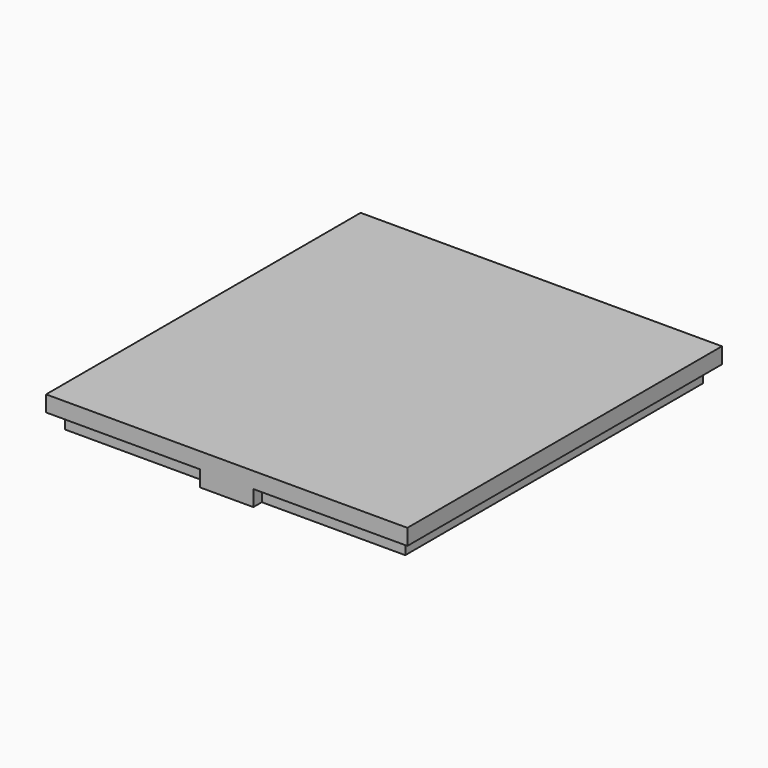
from build123d import *

# Parameters (mm, degrees)
SKETCH_W        = 34
SKETCH_H        = 37
PAD_DEPTH       = 15
SKETCH001_W     = 32
SKETCH001_H     = 35
POCKET_DEPTH    = 1.5
SKETCH002_W     = 30
SKETCH002_H     = 33
POCKET001_DEPTH = 10
SKETCH003_W     = 5
SKETCH003_H     = 5
POCKET002_DEPTH = 300
SKETCH004_W     = 34
SKETCH004_H     = 37
PAD001_DEPTH    = 1.5


with BuildPart() as pocket002:
    # Sketch → Pad (new body)
    with BuildSketch(Plane.XY):
        Rectangle(SKETCH_W, SKETCH_H)
    extrude(amount=PAD_DEPTH)

    # Sketch001 → Pocket (cut)
    with BuildSketch(Plane.XY.offset(15)):
        Rectangle(SKETCH001_W, SKETCH001_H)
    extrude(amount=-POCKET_DEPTH, mode=Mode.SUBTRACT)

    # Sketch002 → Pocket001 (cut)
    with BuildSketch(Plane.XY.offset(13.5)):
        Rectangle(SKETCH002_W, SKETCH002_H)
    extrude(amount=-POCKET001_DEPTH, mode=Mode.SUBTRACT)

    # Sketch003 → Pocket002 (cut)
    with BuildSketch(Plane.XZ.offset(18.5)):
        with Locations((0, 12.5)):
            Rectangle(SKETCH003_W, SKETCH003_H)
    extrude(amount=-POCKET002_DEPTH, mode=Mode.SUBTRACT)


with BuildPart() as cut:
    # Pad001 base: copy of Pocket002
    add(pocket002.part)

    # Sketch004 → Pad001 (new body, symmetric)
    with BuildSketch(Plane.XY.offset(15)):
        Rectangle(SKETCH004_W, SKETCH004_H)
    extrude(amount=PAD001_DEPTH, both=True)

    # Cut: cut Pocket002
    add(pocket002.part, mode=Mode.SUBTRACT)


solid = cut.part
